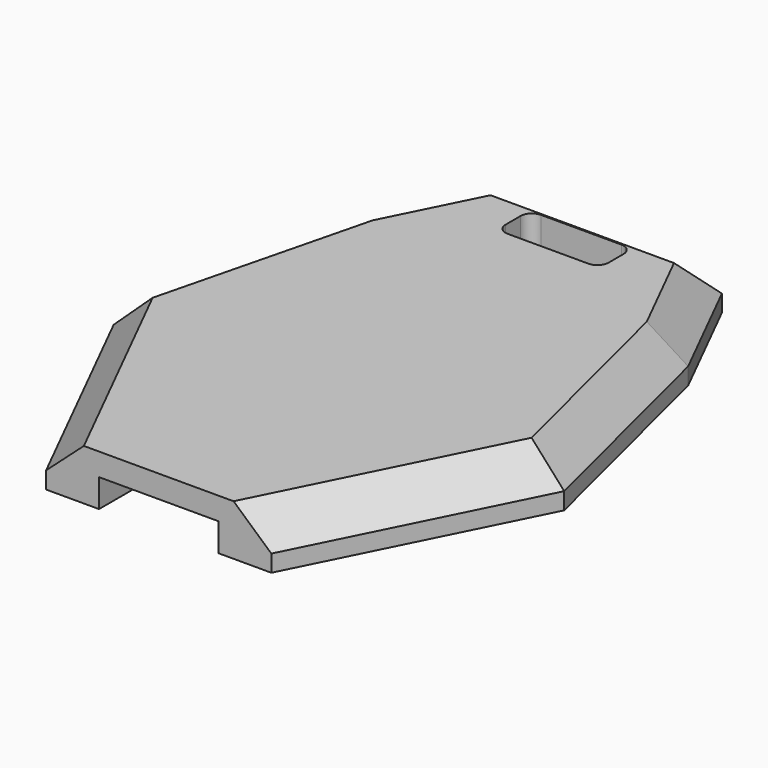
from build123d import *

# Parameters (mm, degrees)
F0_W     = 9.141622
F0_H     = 3.656581
F1_DEPTH = 4.5
F3_DEPTH = 2
F4_SIZE  = 3
F5_R     = 1


with BuildPart() as f1:
    # F0 (on Top) → F1 (new body)
    with BuildSketch(Plane.XY):
        Polygon((10, 36.911765), (-10, 36.911765), (-15, 26.911765), (-20, 6.911765), (-10, -13.088235), (-5.3, -13.088235), (-5.3, -7.788235), (6.632093, 6.465869), (12.109291, 1.639867), (5.3, -6.088235), (5.3, -13.088235), (10, -13.088235), (20, 6.911765), (15, 26.911765), align=None)
        with Locations((0, 31.958237)):
            Rectangle(F0_W, F0_H, mode=Mode.SUBTRACT)
    extrude(amount=F1_DEPTH)

    # F2 (on face) → F3 (join)
    with BuildSketch(Plane.XY.offset(4.5)):
        Polygon((-5.3, -7.788235), (-5.3, -13.088235), (5.3, -13.088235), (5.3, -6.088235), (12.109291, 1.639867), (6.632093, 6.465869), align=None)
    extrude(amount=-F3_DEPTH)

    # F4
    f4_edges = [f1.edges().sort_by_distance(p)[0] for p in [
        (15, -3.088235, 4.5),
        (17.5, 16.911765, 4.5),
        (-15, -3.088235, 4.5),
        (-17.5, 16.911765, 4.5),
        (-12.5, 31.911765, 4.5),
        (0, 36.911765, 4.5),
        (12.5, 31.911765, 4.5),
    ]]
    chamfer(f4_edges, length=F4_SIZE)

    # F5
    f5_edges = [f1.edges().sort_by_distance(p)[0] for p in [
        (4.570811, 30.129947, 2.25),
        (-4.570811, 30.129947, 2.25),
        (-4.570811, 33.786528, 2.25),
        (4.570811, 33.786528, 2.25),
    ]]
    fillet(f5_edges, radius=F5_R)


solid = f1.part
